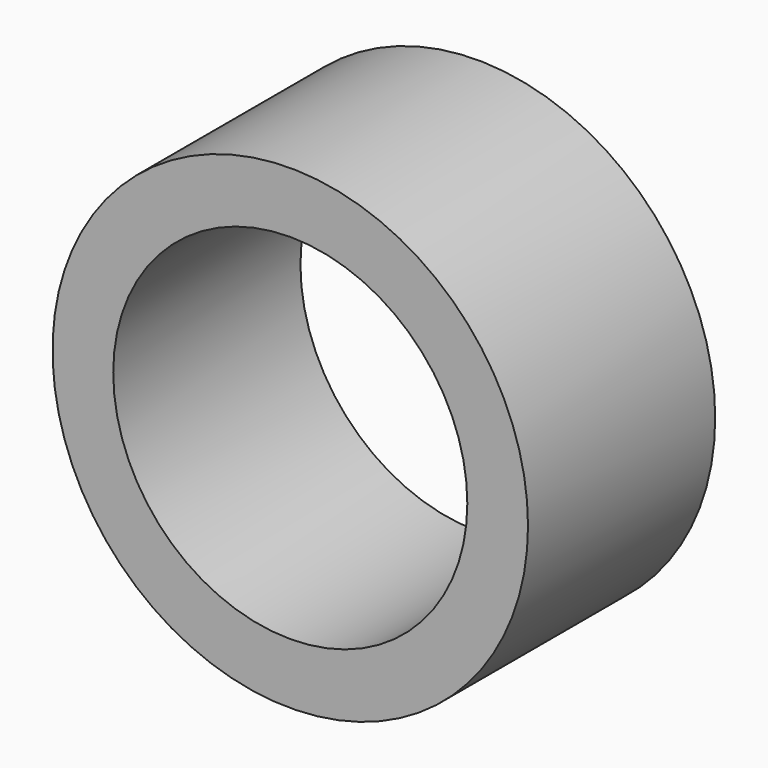
from build123d import *

# Parameters (mm, degrees)
F0_R     = 25.4
F1_DEPTH = 12.5
F2_R     = 18.9149764307
F3_DEPTH = 25


with BuildPart() as f1:
    # F0 (on Front) → F1 (new body, symmetric)
    with BuildSketch(Plane.XZ):
        Circle(F0_R)
    extrude(amount=F1_DEPTH, both=True)

    # F2 (on face) → F3 (cut, symmetric)
    with BuildSketch(Plane.XZ.offset(12.5)):
        Circle(F2_R)
    extrude(amount=F3_DEPTH, both=True, mode=Mode.SUBTRACT)


solid = f1.part
